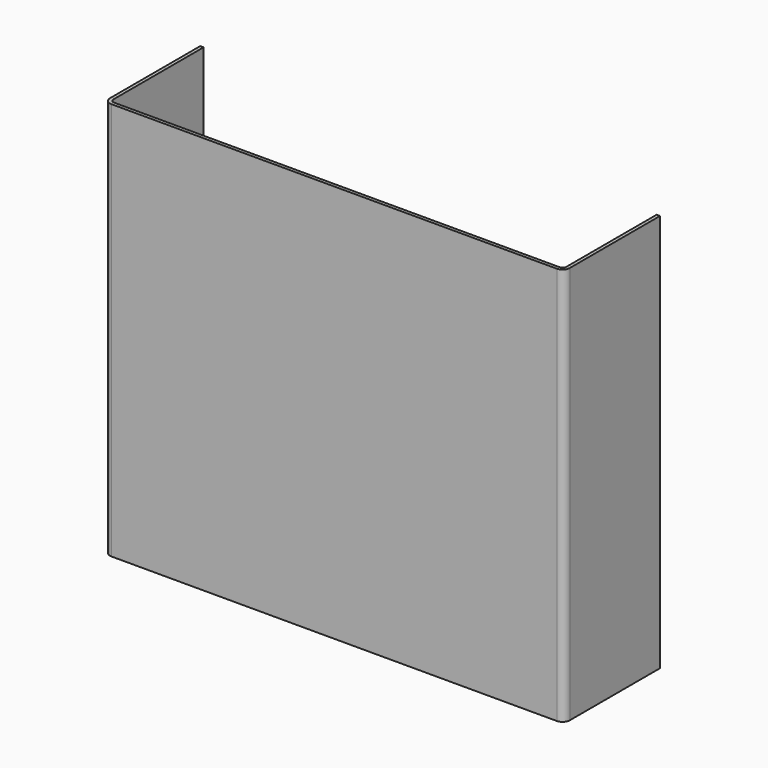
from build123d import *

# Parameters (mm, degrees)
F1_DEPTH = 203.2
F2_R     = 3.69316
F3_R     = 1.98374


with BuildPart() as f1:
    # F0 (on Top) → F1 (new body)
    with BuildSketch(Plane.XY):
        Polygon((0, -59.54209), (0, 0), (-1.70942, 0), (-1.70942, -61.25151), (232.920897, -61.25151), (232.920897, 0), (231.211477, 0), (231.211477, -59.54209), align=None)
    extrude(amount=F1_DEPTH)

    # F2
    f2_edges = [f1.edges().sort_by_distance(p)[0] for p in [
        (232.920897, -61.25151, 101.6),
        (-1.70942, -61.25151, 101.6),
    ]]
    fillet(f2_edges, radius=F2_R)

    # F3
    f3_edges = [f1.edges().sort_by_distance(p)[0] for p in [
        (0, -59.54209, 101.6),
        (231.211477, -59.54209, 101.6),
    ]]
    fillet(f3_edges, radius=F3_R)


solid = f1.part
